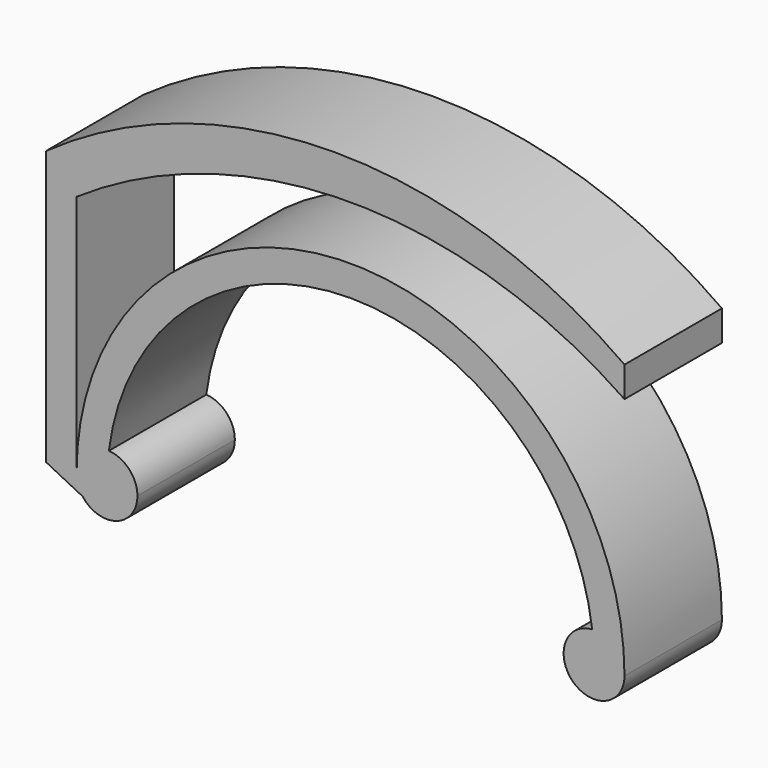
from build123d import *

# Parameters (mm, degrees)
F1_DEPTH = 25.4


with BuildPart() as f1:
    # F0 (on Front) → F1 (new body)
    with BuildSketch(Plane.XZ):
        with BuildLine():
            Line((-63.5, 0), (-57.15, 0))
            Line((-57.15, 0), (-57.15, 50.8))
            ThreePointArc((-57.15, 50.8), (0, 68.3973958737), (57.15, 50.8))
            Line((57.15, 50.8), (57.15, 57.15))
            ThreePointArc((57.15, 57.15), (-3.175, 76.495759208), (-63.5, 57.15))
            Line((-63.5, 57.15), (-63.5, 0))
        make_face()
        with BuildLine():
            ThreePointArc((-50.8, -6.35), (-46.3098719395, -4.4901280605), (-44.45, 0))
            Line((-44.45, 0), (-50.8, 0))
            ThreePointArc((-50.8, 0), (-50.700684167, 3.175), (-50.403125, 6.3375855209))
            ThreePointArc((-50.403125, 6.3375855209), (-55.1475478002, 4.6283180665), (-57.15, 0))
            ThreePointArc((-57.15, 0), (-56.8241389426, -2.0080463142), (-55.88, -3.81))
            Line((-55.88, -3.81), (-50.8, -6.35))
        make_face()
        with BuildLine():
            ThreePointArc((-57.15, 0), (-55.1475478002, 4.6283180665), (-50.403125, 6.3375855209))
            ThreePointArc((-50.403125, 6.3375855209), (0, 50.8), (50.403125, 6.3375855209))
            ThreePointArc((50.403125, 6.3375855209), (55.1475478002, 4.6283180665), (57.15, 0))
            ThreePointArc((57.15, 0), (0, 57.15), (-57.15, 0))
        make_face()
        with BuildLine():
            Line((-50.8, 0), (-44.45, 0))
            ThreePointArc((-44.45, 0), (-46.1716819335, 4.3475478002), (-50.403125, 6.3375855209))
            ThreePointArc((-50.403125, 6.3375855209), (-50.700684167, 3.175), (-50.8, 0))
        make_face()
        with BuildLine():
            ThreePointArc((50.403125, 6.3375855209), (46.1716819335, 4.3475478002), (44.45, 0))
            Line((44.45, 0), (50.8, 0))
            ThreePointArc((50.8, 0), (50.700684167, 3.175), (50.403125, 6.3375855209))
        make_face()
        with BuildLine():
            Line((50.8, 0), (44.45, 0))
            ThreePointArc((44.45, 0), (50.8, -6.35), (57.15, 0))
            ThreePointArc((57.15, 0), (55.1475478002, 4.6283180665), (50.403125, 6.3375855209))
            ThreePointArc((50.403125, 6.3375855209), (50.700684167, 3.175), (50.8, 0))
        make_face()
        with BuildLine():
            Line((-63.5, 0), (-55.88, -3.81))
            ThreePointArc((-55.88, -3.81), (-56.8241389426, -2.0080463142), (-57.15, 0))
            Line((-57.15, 0), (-63.5, 0))
        make_face()
        with BuildLine():
            ThreePointArc((-55.88, -3.81), (-53.6398063314, -5.6796126628), (-50.8, -6.35))
            Line((-50.8, -6.35), (-55.88, -3.81))
        make_face()
    extrude(amount=F1_DEPTH)


solid = f1.part
